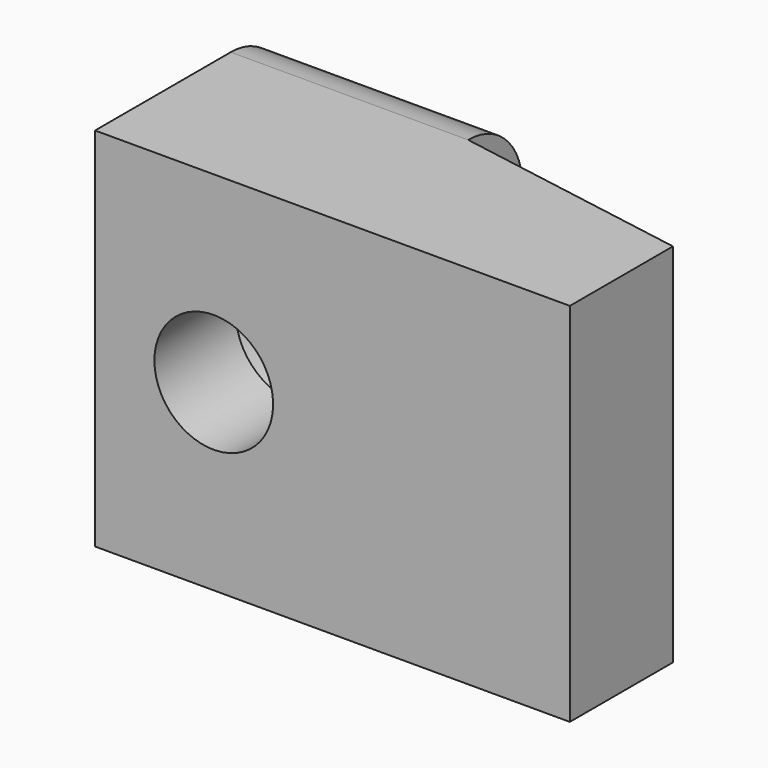
from build123d import *

# Parameters (mm, degrees)
F1_DEPTH = 10.8
F2_R     = 1.75
F3_DEPTH = 7.001
F4_R     = 3.2
F5_DEPTH = 4
F6_R     = 2


with BuildPart() as f1:
    # F0 (on Top) → F1 (new body)
    with BuildSketch(Plane.XY):
        Polygon((-7, 7), (-7, 0), (7, 0), (7, 3.8), (0, 5), (0, 7), align=None)
    extrude(amount=F1_DEPTH)

    # F2 (on face) → F3 (cut, through all)
    with BuildSketch(Plane(origin=(0, 7, 0), x_dir=(-1, 0, 0), z_dir=(0, 1, 0))):
        with Locations((3.5, 5.4)):
            Circle(F2_R)
    extrude(amount=-F3_DEPTH, mode=Mode.SUBTRACT)

    # F4 (on face) → F5 (cut)
    with BuildSketch(Plane(origin=(0, 7, 0), x_dir=(-1, 0, 0), z_dir=(0, 1, 0))):
        with Locations((3.5, 5.4)):
            Circle(F4_R)
    extrude(amount=-F5_DEPTH, mode=Mode.SUBTRACT)

    # F6
    f6_edges = [f1.edges().sort_by_distance(p)[0] for p in [
        (-3.5, 7, 10.8),
        (-3.5, 7, 0),
    ]]
    fillet(f6_edges, radius=F6_R)


solid = f1.part
